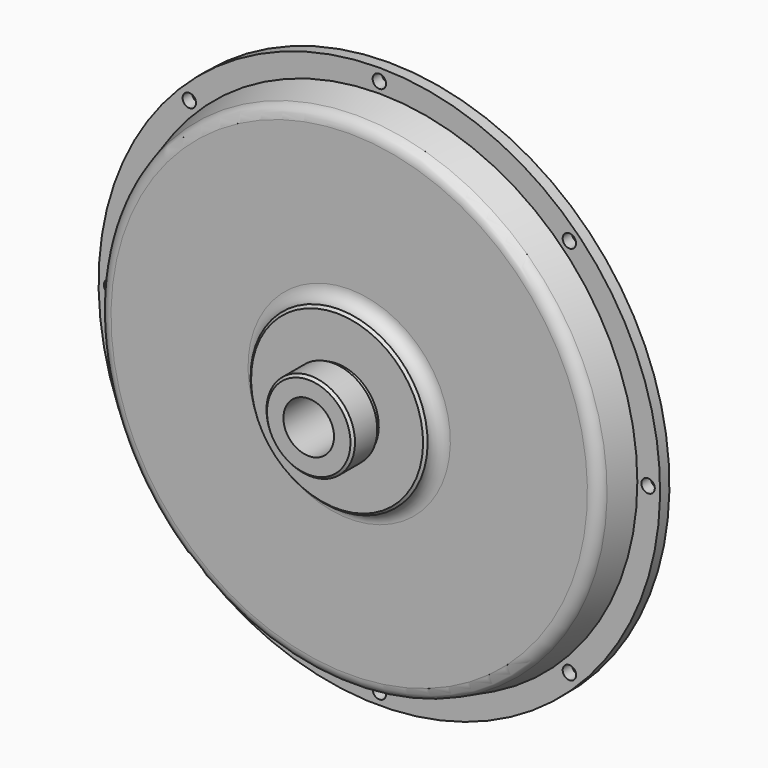
from build123d import *

# Parameters (mm, degrees)
F2_R     = 2.65
F3_DEPTH = 7.101


with BuildPart() as f1:
    # F0 (on Right) → F1 (revolve)
    with BuildSketch(Plane.YZ):
        with BuildLine():
            Line((2.5, 10), (2.5, 102.5))
            Line((2.5, 102.5), (0, 102.5))
            Line((0, 102.5), (0, 111))
            Line((0, 111), (-4.6, 111))
            Line((-4.6, 111), (-4.6, 102))
            Line((-4.6, 102), (-15.794095, 99.000551))
            ThreePointArc((-15.794095, 99.000551), (-18.466767, 97.214729), (-19.5, 94.170922))
            Line((-19.5, 94.170922), (-19.5, 40))
            ThreePointArc((-19.5, 40), (-20.964466, 36.464466), (-24.5, 35))
            Line((-24.5, 35), (-25.5, 34))
            Line((-25.5, 34), (-25.5, 16.5))
            Line((-25.5, 16.5), (-27.5, 16.5))
            Line((-27.5, 16.5), (-27.5, 17.5))
            Line((-27.5, 17.5), (-38.5, 17.5))
            Line((-38.5, 17.5), (-39.5, 16.5))
            Line((-39.5, 16.5), (-39.5, 10))
            Line((-39.5, 10), (2.5, 10))
        make_face()
    revolve(axis=Axis((0, -26.156189, 0), (0, -1, 0)))

    # F2 (on face) → F3 (cut, through all)
    with BuildSketch(Plane.XZ.offset(4.6)):
        with Locations((-106.25, 0)):
            Circle(F2_R)
        with Locations((-75.130096, -75.130096)):
            Circle(F2_R)
        with Locations((0, -106.25)):
            Circle(F2_R)
        with Locations((75.130096, -75.130096)):
            Circle(F2_R)
        with Locations((106.25, 0)):
            Circle(F2_R)
        with Locations((75.130096, 75.130096)):
            Circle(F2_R)
        with Locations((0, 106.25)):
            Circle(F2_R)
        with Locations((-75.130096, 75.130096)):
            Circle(F2_R)
    extrude(amount=-F3_DEPTH, mode=Mode.SUBTRACT)


solid = f1.part
